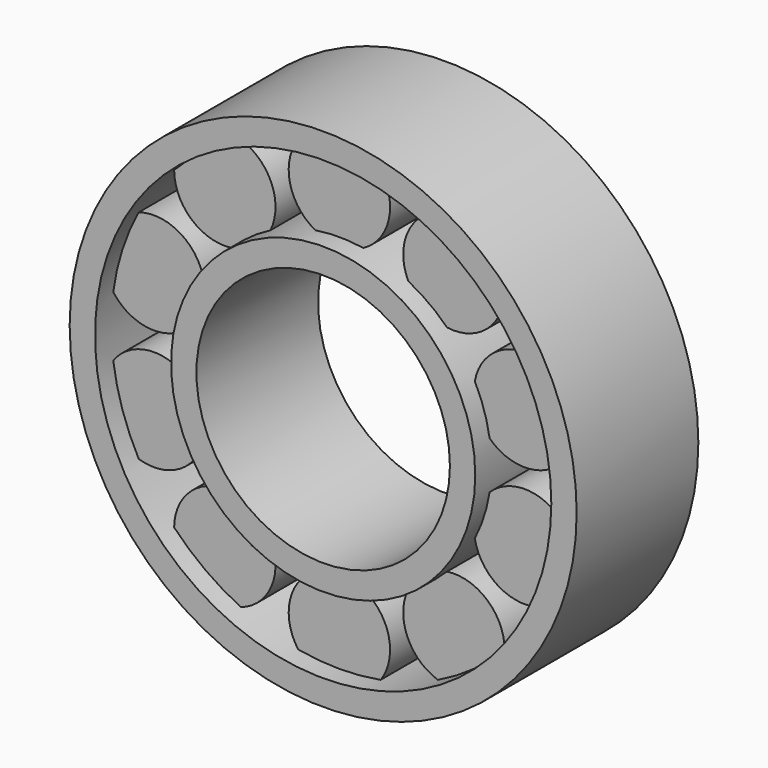
from build123d import *

# Parameters (mm, degrees)
F1_R     = 25
F1_R_2   = 22.5
F1_R_3   = 15
F1_R_4   = 12.5
F2_DEPTH = 15
F3_R     = 5
F4_DEPTH = 11


with BuildPart() as f2:
    # F1 (on Front) → F2 (new body)
    with BuildSketch(Plane.XZ):
        Circle(F1_R)
        Circle(F1_R_2, mode=Mode.SUBTRACT)
        Circle(F1_R_3)
        Circle(F1_R_4, mode=Mode.SUBTRACT)
    extrude(amount=F2_DEPTH)

    # F3 (on offset) → F4 (join)
    with BuildSketch(Plane.XZ.offset(2)):
        with Locations((0, 19.220972)):
            Circle(F3_R)
        with Locations((-11.297804, 15.550093)):
            Circle(F3_R)
        with Locations((-18.280231, 5.939607)):
            Circle(F3_R)
        with Locations((-18.280231, -5.939607)):
            Circle(F3_R)
        with Locations((-11.297804, -15.550093)):
            Circle(F3_R)
        with Locations((0, -19.220972)):
            Circle(F3_R)
        with Locations((11.297804, -15.550093)):
            Circle(F3_R)
        with Locations((18.280231, -5.939607)):
            Circle(F3_R)
        with Locations((18.280231, 5.939607)):
            Circle(F3_R)
        with Locations((11.297804, 15.550093)):
            Circle(F3_R)
    extrude(amount=F4_DEPTH)


solid = f2.part
